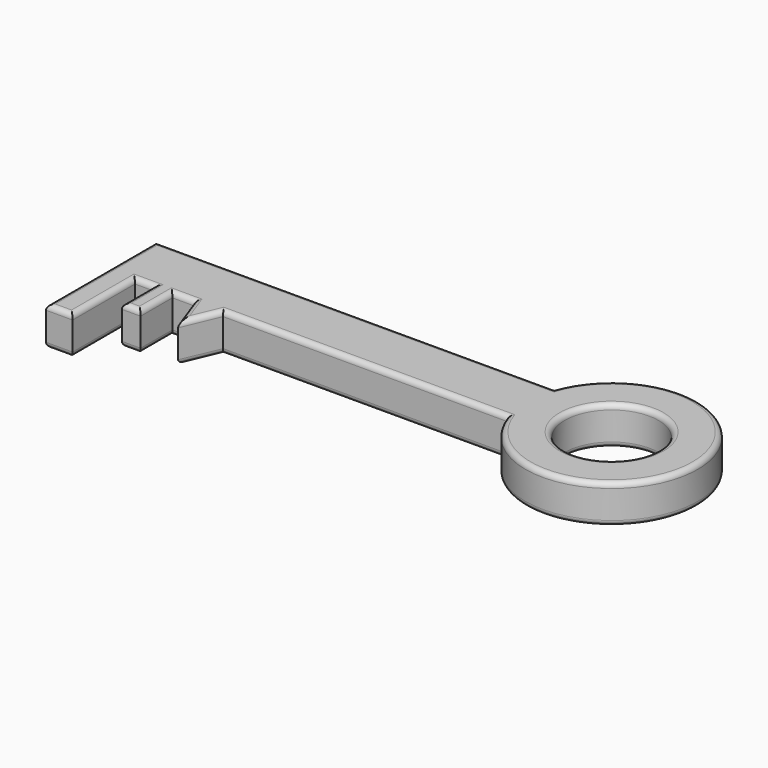
from build123d import *

# Parameters (mm, degrees)
F0_W     = 7.3151960969
F0_H     = 15.5448005535
F0_W_2   = 10.3631988168
F0_H_2   = 30.4800001904
F0_R     = 18.3094961211
F1_DEPTH = 15
F2_R     = 2


with BuildPart() as f1:
    # F0 (on Top) → F1 (new body)
    with BuildSketch(Plane.XY):
        Polygon((34.1375991702, 11.1252004281), (34.1375991702, 34.2900007963), (-121.6152012348, 34.2900007963), (-121.6152012348, 11.1252004281), (-111.252002418, 11.1252004281), (-103.9367988706, 11.1252004281), (-96.6216027737, 11.1252004281), (-88.0872011185, 11.1252004281), (-76.8095999956, 11.1252004281), align=None)
        Polygon((-82.9055979848, -3.2003999222), (-76.8095999956, 11.1252004281), (-88.0872011185, 11.1252004281), align=None)
        with Locations((-100.2792008221, 3.3528001513)):
            Rectangle(F0_W, F0_H)
        with Locations((-116.4336018264, -4.1147996671)):
            Rectangle(F0_W_2, F0_H_2)
        with BuildLine():
            ThreePointArc((34.1375991702, 11.1252004281), (99.432454276, 22.7076006122), (34.1375991702, 34.2900007963))
            Line((34.1375991702, 34.2900007963), (34.1375991702, 11.1252004281))
        make_face()
        with Locations((65.7577482813, 22.7076006122)):
            Circle(F0_R, mode=Mode.SUBTRACT)
    extrude(amount=F1_DEPTH)

    # F2
    f2_edges = [f1.edges().sort_by_distance(p)[0] for p in [
        (-43.738801, 34.290001, 0),
        (-121.615201, 7.467601, 0),
        (-116.433602, -19.3548, 0),
        (-111.252002, -4.1148, 0),
        (-107.594401, 11.1252, 0),
        (-103.936799, 3.3528, 0),
        (-100.279201, -4.4196, 0),
        (-96.621603, 3.3528, 0),
        (-92.354402, 11.1252, 0),
        (-85.4964, 3.9624, 0),
        (-79.857599, 3.9624, 0),
        (-21.336, 11.1252, 0),
        (99.432454, 22.707601, 0),
        (47.448252, 22.707601, 0),
        (-43.738801, 34.290001, 15),
        (-121.615201, 7.467601, 15),
        (-116.433602, -19.3548, 15),
        (-111.252002, -4.1148, 15),
        (-107.594401, 11.1252, 15),
        (-103.936799, 3.3528, 15),
        (-100.279201, -4.4196, 15),
        (-96.621603, 3.3528, 15),
        (-92.354402, 11.1252, 15),
        (-85.4964, 3.9624, 15),
        (-79.857599, 3.9624, 15),
        (-21.336, 11.1252, 15),
        (99.432454, 22.707601, 15),
        (47.448252, 22.707601, 15),
    ]]
    fillet(f2_edges, radius=F2_R)


solid = f1.part
